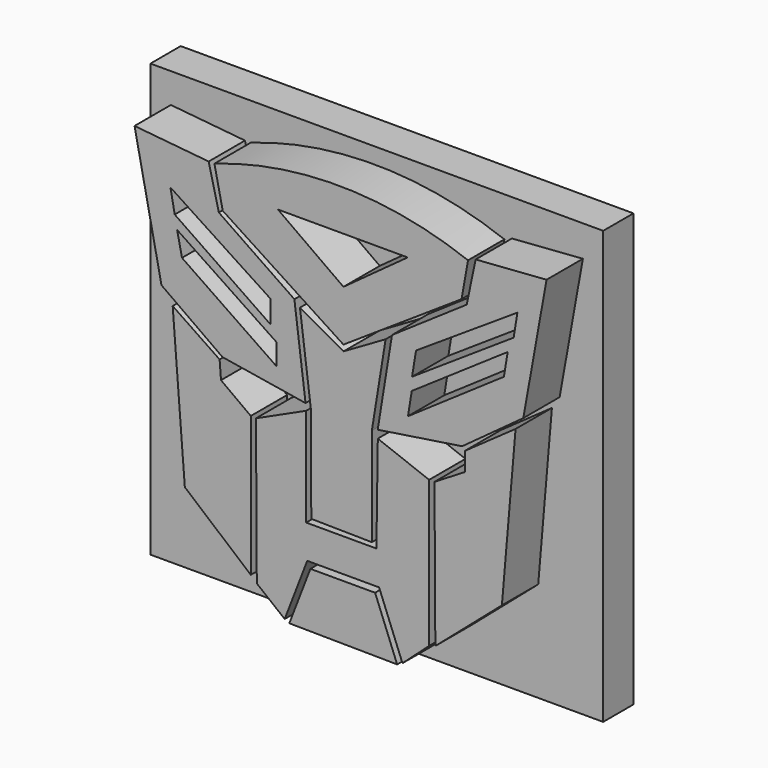
from build123d import *

# Parameters (mm, degrees)
F1_DEPTH = 13.97
F2_W     = 75.981866
F2_H     = 72.55926
F3_DEPTH = 6.35


with BuildPart() as f1:
    # F0 (on Front) → F1 (new body)
    with BuildSketch(Plane.XZ):
        Polygon((-20.910123, 28.011868), (-22.620002, 34.998063), (-35.057768, 36.210492), (-30.537196, 14.147671), (-20.295395, 6.855702), (-6.360257, 4.594069), (-8.23403, 19.331923), align=None)
        Polygon((-27.097644, 19.309429), (-27.911682, 23.176109), (-11.193576, 11.983092), (-11.193576, 8.419131), align=None, mode=Mode.SUBTRACT)
        Polygon((-28.318701, 25.312956), (-29.030984, 29.077882), (-12.232408, 18.088374), (-12.232408, 14.29788), align=None, mode=Mode.SUBTRACT)
        Polygon((-20.783758, 6.348564), (-28.658887, 11.68425), (-26.620794, -14.420622), (-15.546496, -23.769883), (-15.546496, -0.293103), (-20.54969, 3.364203), align=None)
        Polygon((-6.259062, 3.4897), (-14.679422, -0.358425), (-14.541315, -24.707351), (-9.859964, -28.452432), (-6.077021, -18.618327), (5.986684, -18.618327), (9.901049, -28.552113), (14.377185, -24.533365), (14.377185, 0), (5.766023, 3.293024), (5.532654, -13.025526), (-6.259062, -13.025526), align=None)
        Polygon((8.145996, 19.367998), (5.74935, 4.600975), (19.909376, 6.758386), (30.186456, 14.258976), (34.083426, 35.970651), (22.183755, 35.100792), (20.687599, 27.933156), align=None)
        Polygon((10.827216, 8.242161), (11.467388, 12.186602), (27.561653, 23.176109), (26.934102, 19.309429), align=None, mode=Mode.SUBTRACT)
        Polygon((11.514941, 14.29788), (12.179671, 18.393638), (29.195807, 29.522355), (28.562177, 25.618222), align=None, mode=Mode.SUBTRACT)
        Polygon((28.888335, 12.24093), (20.364532, 6.220476), (20.385059, 3.102237), (15.282434, 0), (15.419736, -24.207037), (26.591713, -14.566036), align=None)
        Polygon((-5.548328, -19.630127), (-9.087029, -28.829303), (9.012265, -29.018412), (5.312853, -19.630127), align=None)
        Polygon((0, 14.29788), (-7.297143, 18.393638), (-5.486633, 4.153366), (-5.393916, -12.193046), (4.767399, -12.338362), (4.767399, 4.153366), (7.078555, 18.393638), align=None)
        with BuildLine():
            ThreePointArc((20.912376, 34.560182), (-0.331395, 38.536173), (-21.652466, 34.998063))
            Line((-21.652466, 34.998063), (-20.26088, 28.492849))
            Line((-20.26088, 28.492849), (0, 15.303041))
            Line((0, 15.303041), (19.818077, 28.46338))
            Line((19.818077, 28.46338), (20.912376, 34.560182))
        make_face()
        Polygon((0, 23.838738), (-10.995117, 31.68603), (10.781131, 31.68603), align=None, mode=Mode.SUBTRACT)
    extrude(amount=F1_DEPTH)


with BuildPart() as f3:
    # F2 (on Front) → F3 (new body)
    with BuildSketch(Plane.XZ):
        with Locations((-0.497287, 4.931718)):
            Rectangle(F2_W, F2_H)
    extrude(amount=F3_DEPTH)


solid = Compound([f1.part, f3.part])
